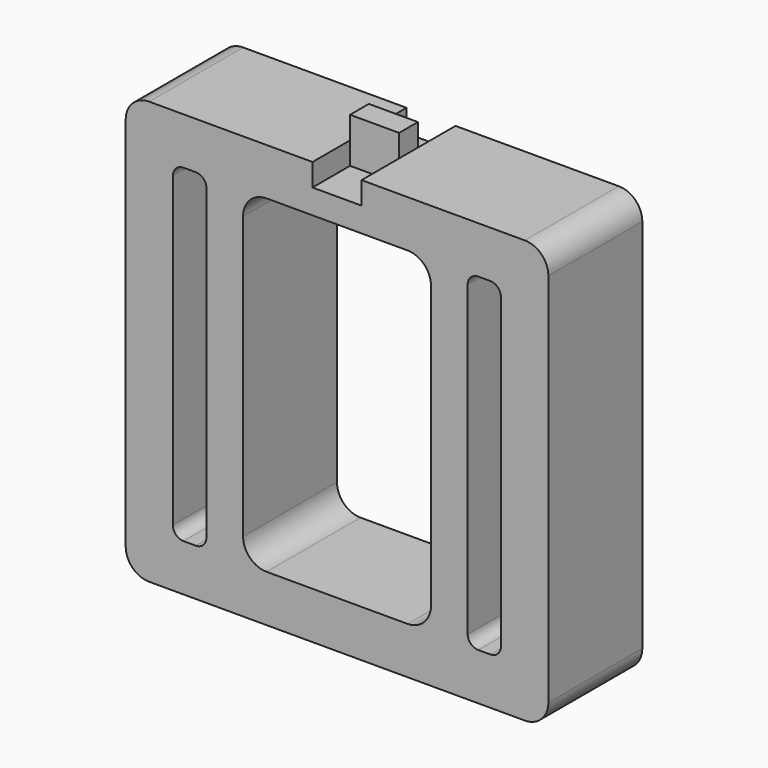
from build123d import *

# Parameters (mm, degrees)
F0_W     = 5.222296
F0_H     = 4.786847
F1_DEPTH = 2.5
F2_DEPTH = 12.5


with BuildPart() as f1:
    # F0 (on Front) → F1 (new body, symmetric)
    with BuildSketch(Plane.XZ):
        with Locations((2.611148, 47.393423)):
            Rectangle(F0_W, F0_H)
        with Locations((-2.611148, 47.393423)):
            Rectangle(F0_W, F0_H)
        Polygon((0, 45), (-5.222296, 45), (-5.222296, 40.213153), (5.222296, 40.213153), (5.222296, 45), align=None)
    extrude(amount=F1_DEPTH, both=True)

    # F0 (on Front) → F2 (join, symmetric)
    with BuildSketch(Plane.XZ):
        with BuildLine():
            Line((-5.222296, 45), (-40, 45))
            ThreePointArc((-40, 45), (-43.535534, 43.535534), (-45, 40))
            Line((-45, 40), (-45, -40))
            ThreePointArc((-45, -40), (-43.535534, -43.535534), (-40, -45))
            Line((-40, -45), (40, -45))
            ThreePointArc((40, -45), (43.535534, -43.535534), (45, -40))
            Line((45, -40), (45, 40))
            ThreePointArc((45, 40), (43.535534, 43.535534), (40, 45))
            Line((40, 45), (5.222296, 45))
            Line((5.222296, 45), (5.222296, 40.213153))
            Line((5.222296, 40.213153), (-5.222296, 40.213153))
            Line((-5.222296, 40.213153), (-5.222296, 45))
        make_face()
        with BuildLine():
            Line((3.352741, 35), (8.352741, 35))
            Line((8.352741, 35), (15, 35))
            Line((15, 35), (27.810507, 35))
            Line((27.810507, 35), (30.06182, 35))
            Line((30.06182, 35), (32.644888, 35))
            ThreePointArc((32.644888, 35), (34.236806, 34.340606), (34.8962, 32.748687))
            Line((34.8962, 32.748687), (34.8962, -32.748687))
            ThreePointArc((34.8962, -32.748687), (34.236806, -34.340606), (32.644888, -35))
            Line((32.644888, -35), (30.06182, -35))
            Line((30.06182, -35), (27.810507, -35))
            Line((27.810507, -35), (15, -35))
            Line((15, -35), (8.352741, -35))
            Line((8.352741, -35), (3.352741, -35))
            Line((3.352741, -35), (0, -35))
            Line((0, -35), (-3.352741, -35))
            Line((-3.352741, -35), (-8.352741, -35))
            Line((-8.352741, -35), (-15, -35))
            Line((-15, -35), (-27.810507, -35))
            Line((-27.810507, -35), (-30.06182, -35))
            Line((-30.06182, -35), (-32.701636, -35))
            ThreePointArc((-32.701636, -35), (-34.293555, -34.340606), (-34.952949, -32.748687))
            Line((-34.952949, -32.748687), (-34.952949, 32.748687))
            ThreePointArc((-34.952949, 32.748687), (-34.293555, 34.340606), (-32.701636, 35))
            Line((-32.701636, 35), (-30.06182, 35))
            Line((-30.06182, 35), (-27.810507, 35))
            Line((-27.810507, 35), (-15, 35))
            Line((-15, 35), (-8.352741, 35))
            Line((-8.352741, 35), (-3.352741, 35))
            Line((-3.352741, 35), (0, 35))
            Line((0, 35), (3.352741, 35))
        make_face(mode=Mode.SUBTRACT)
        with BuildLine():
            ThreePointArc((-20, 30), (-18.535534, 33.535534), (-15, 35))
            Line((-15, 35), (-27.810507, 35))
            Line((-27.810507, 35), (-30.06182, 35))
            ThreePointArc((-30.06182, 35), (-28.469901, 34.340606), (-27.810507, 32.748687))
            Line((-27.810507, 32.748687), (-27.810507, -32.748687))
            ThreePointArc((-27.810507, -32.748687), (-28.469901, -34.340606), (-30.06182, -35))
            Line((-30.06182, -35), (-27.810507, -35))
            Line((-27.810507, -35), (-15, -35))
            ThreePointArc((-15, -35), (-18.535534, -33.535534), (-20, -30))
            Line((-20, -30), (-20, 30))
        make_face()
        with BuildLine():
            Line((27.810507, 35), (15, 35))
            ThreePointArc((15, 35), (18.535534, 33.535534), (20, 30))
            Line((20, 30), (20, -30))
            ThreePointArc((20, -30), (18.535534, -33.535534), (15, -35))
            Line((15, -35), (27.810507, -35))
            Line((27.810507, -35), (30.06182, -35))
            ThreePointArc((30.06182, -35), (28.469901, -34.340606), (27.810507, -32.748687))
            Line((27.810507, -32.748687), (27.810507, 32.748687))
            ThreePointArc((27.810507, 32.748687), (28.469901, 34.340606), (30.06182, 35))
            Line((30.06182, 35), (27.810507, 35))
        make_face()
    extrude(amount=F2_DEPTH, both=True)


solid = f1.part
